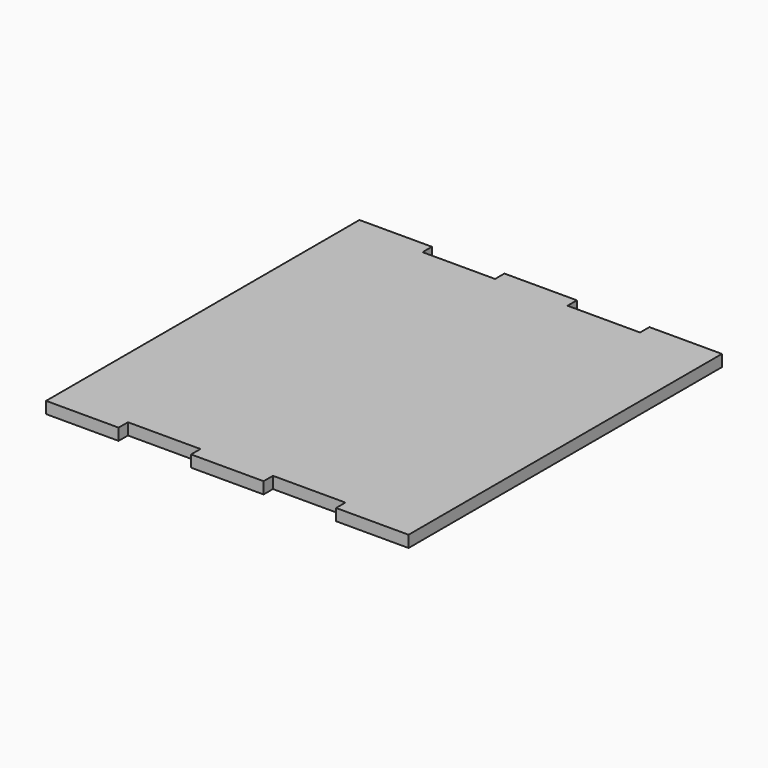
from build123d import *

# Parameters (mm, degrees)
F1_DEPTH = 3.175


with BuildPart() as f1:
    # F0 (on Top) → F1 (new body)
    with BuildSketch(Plane.XY):
        Polygon((-29.5275, 38.175), (-49.2125, 38.175), (-49.2125, 35), (-49.2125, -65), (-49.2125, -68.175), (-29.5275, -68.175), (-29.5275, -65), (-9.8425, -65), (-9.8425, -68.175), (9.8425, -68.175), (9.8425, -65), (29.5275, -65), (29.5275, -68.175), (49.2125, -68.175), (49.2125, -65), (49.2125, 35), (49.2125, 38.175), (29.5275, 38.175), (29.5275, 35), (9.8425, 35), (9.8425, 38.175), (-9.8425, 38.175), (-9.8425, 35), (-29.5275, 35), align=None)
    extrude(amount=F1_DEPTH)


solid = f1.part
